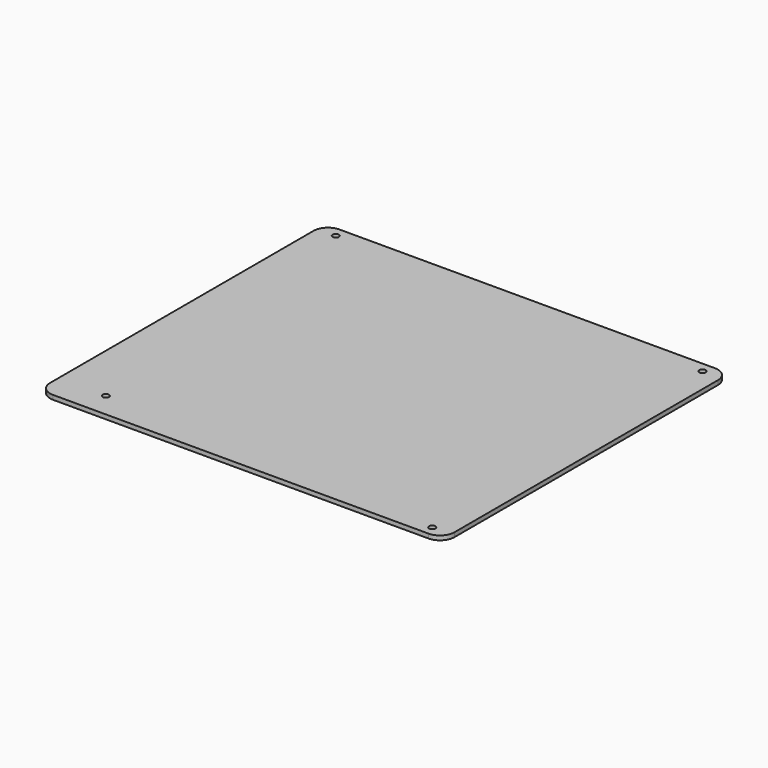
from build123d import *

# Parameters (mm, degrees)
F0_W     = 280
F0_H     = 248
F0_R     = 2.2
F1_DEPTH = 3
F2_R     = 10


with BuildPart() as f1:
    # F0 (on Top) → F1 (new body)
    with BuildSketch(Plane.XY):
        with Locations((-20.673077, -68.615384)):
            Rectangle(F0_W, F0_H)
        with Locations((-127.673077, -175.615384)):
            Circle(F0_R, mode=Mode.SUBTRACT)
        with Locations((106.326923, -185.615384)):
            Circle(F0_R, mode=Mode.SUBTRACT)
        with Locations((-147.673077, 48.384616)):
            Circle(F0_R, mode=Mode.SUBTRACT)
        with Locations((106.326923, 48.384616)):
            Circle(F0_R, mode=Mode.SUBTRACT)
    extrude(amount=F1_DEPTH)

    # F2
    f2_edges = [f1.edges().sort_by_distance(p)[0] for p in [
        (-160.673077, 55.384616, 1.5),
        (119.326923, 55.384616, 1.5),
        (119.326923, -192.615384, 1.5),
        (-160.673077, -192.615384, 1.5),
    ]]
    fillet(f2_edges, radius=F2_R)


solid = f1.part
